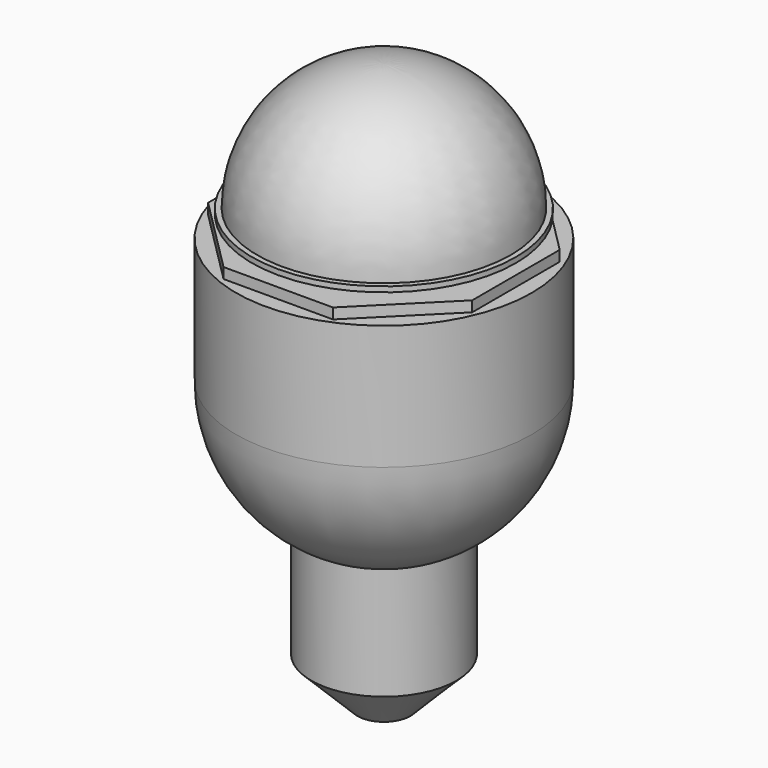
from build123d import *

# Parameters (mm, degrees)
F3_DEPTH = 2


with BuildPart() as f1:
    # F0 (on Front) → F1 (revolve)
    with BuildSketch(Plane.XZ):
        with BuildLine():
            Line((0, 1), (0, 0))
            Line((0, 0), (25, 0))
            Line((25, 0), (25, 1))
            Line((25, 1), (24, 1))
            ThreePointArc((24, 1), (16.970563, 17.970563), (0, 25))
            Line((0, 25), (0, 1))
        make_face()
        with BuildLine():
            Line((28, -4), (0, -4))
            Line((0, -4), (0, -82))
            Line((0, -82), (5, -82))
            Line((5, -82), (13.75, -73.25))
            Line((13.75, -73.25), (13.75, -56.32651))
            Line((13.75, -56.32651), (13.75, -52))
            ThreePointArc((13.75, -52), (24.176435, -41.733106), (28, -27.608659))
            Line((28, -27.608659), (28, -4))
        make_face()
    revolve(axis=Axis((0, 0, 13), (0, 0, -1)))

    # F2 (on face) → F3 (join)
    with BuildSketch(Plane.XY.offset(-4)):
        Polygon((10.355339, 25), (-10.355339, 25), (-25, 10.355339), (-25, -10.355339), (-10.355339, -25), (10.355339, -25), (25, -10.355339), (25, 10.355339), align=None)
    extrude(amount=F3_DEPTH)


solid = f1.part
